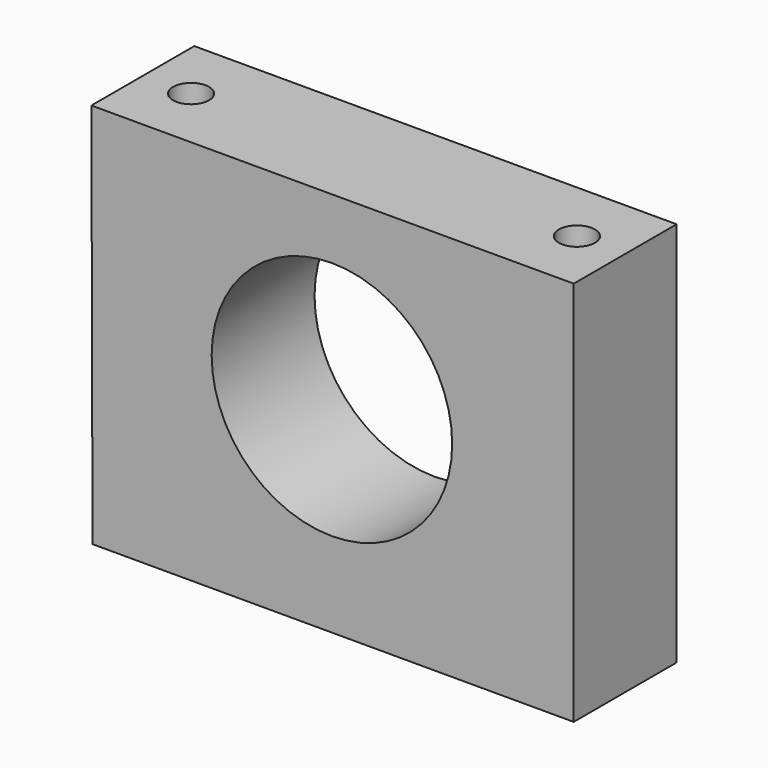
from build123d import *

# Parameters (mm, degrees)
F1_DEPTH = 25.4
F2_R     = 23.749
F3_DEPTH = 25.401
F4_R     = 3.5687
F5_DEPTH = 76.201


with BuildPart() as f1:
    # F0 (on Front) → F1 (new body)
    with BuildSketch(Plane.XZ):
        Polygon((57.205297, 37.989184), (-38.044703, 37.989184), (-37.823511, -38.210816), (57.205297, -38.210816), align=None)
    extrude(amount=F1_DEPTH)

    # F2 (on face) → F3 (cut, through all)
    with BuildSketch(Plane.XZ.offset(25.4)):
        with Locations((9.453297, 2.302564)):
            Circle(F2_R)
    extrude(amount=-F3_DEPTH, mode=Mode.SUBTRACT)

    # F4 (on face) → F5 (cut, through all)
    with BuildSketch(Plane.XY.offset(37.989184)):
        with Locations((-28.519703, -12.7)):
            Circle(F4_R)
        with Locations((47.680297, -12.7)):
            Circle(F4_R)
    extrude(amount=-F5_DEPTH, mode=Mode.SUBTRACT)


solid = f1.part
